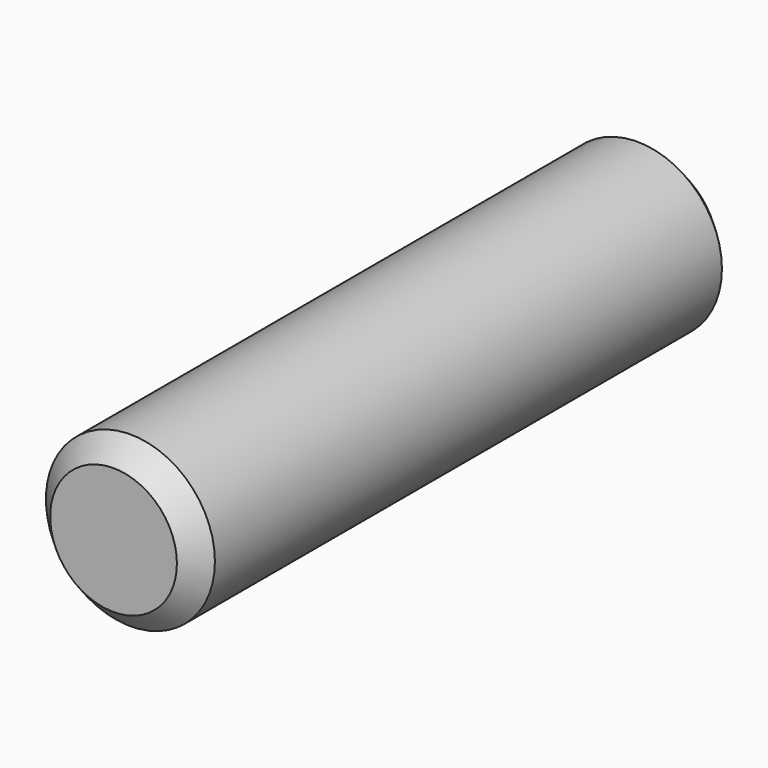
from build123d import *

# Parameters (mm, degrees)
F0_R     = 6.35
F0_R_2   = 4.7625
F1_DEPTH = 50.8
F2_SIZE2 = 1.5875
F2_SIZE  = 1.5875


with BuildPart() as f1:
    # F0 (on Front) → F1 (new body)
    with BuildSketch(Plane.XZ):
        Circle(F0_R)
        Circle(F0_R_2, mode=Mode.SUBTRACT)
        Circle(F0_R_2)
    extrude(amount=F1_DEPTH)

    # F2
    f2_edges = [f1.edges().sort_by_distance(p)[0] for p in [
        (-6.35, -50.8, 0),
        (-6.35, 0, 0),
    ]]
    chamfer(f2_edges, length=F2_SIZE, length2=F2_SIZE2)


solid = f1.part
